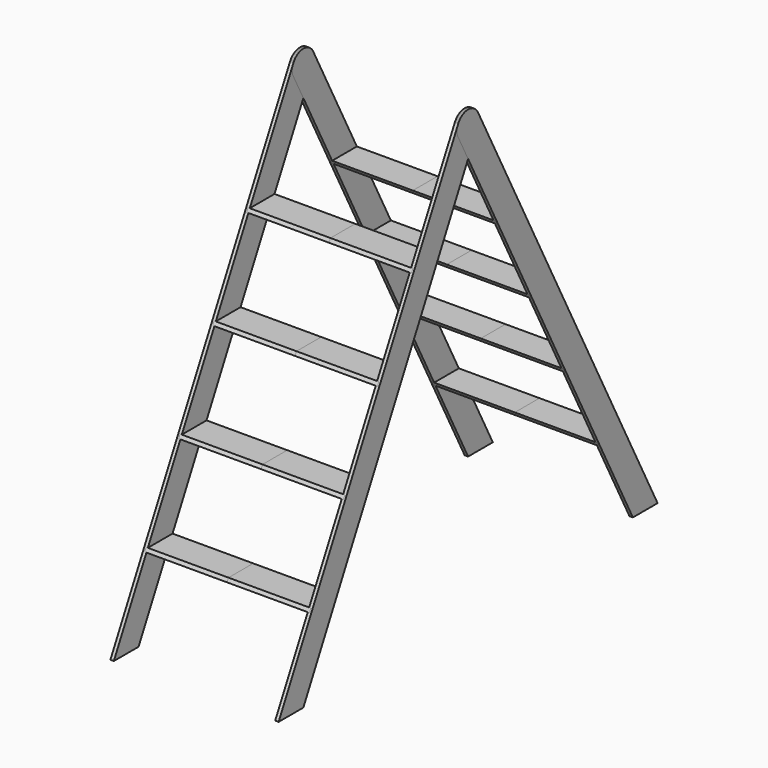
from build123d import *

# Parameters (mm, degrees)
F1_DEPTH = 12.7
F3_DEPTH = 6.35
F5_DEPTH = 304.8


with BuildPart() as f1:
    # F0 (on Right) → F1 (new body)
    with BuildSketch(Plane.YZ):
        with BuildLine():
            Line((-45.6487136165, 1610.6905428261), (-876.3154893977, 0))
            Line((-876.3154893977, 0), (-762, 0))
            Line((-762, 0), (49.5472886649, 1573.6172205508))
            ThreePointArc((49.5472886649, 1573.6172205508), (18.6388714246, 1635.0090014768), (-45.6487136165, 1610.6905428261))
        make_face()
    extrude(amount=F1_DEPTH)

    # F2 (on face) → F3 (cut)
    with BuildSketch(Plane.YZ):
        Polygon((-133.233079164, 1219.2), (-247.5485685617, 1219.2), (-254.098223987, 1206.5), (-139.7827345893, 1206.5), align=None)
        Polygon((-290.424809373, 914.4), (-404.7402987707, 914.4), (-411.289954196, 901.7), (-296.9744647984, 901.7), align=None)
        Polygon((-447.616539582, 609.6), (-561.9320289797, 609.6), (-568.4816844051, 596.9), (-454.1661950074, 596.9), align=None)
        Polygon((-604.808269791, 304.8), (-719.1237591887, 304.8), (-725.6734146141, 292.1), (-611.3579252164, 292.1), align=None)
    extrude(amount=F3_DEPTH, mode=Mode.SUBTRACT)


with BuildPart() as f5:
    # F4 (on face) → F5 (new body)
    with BuildSketch(Plane(origin=(6.35, 0, 0), x_dir=(0, -1, 0), z_dir=(-1, 0, 0))):
        Polygon((254.098223987, 1206.5), (247.5485685617, 1219.2), (133.233079164, 1219.2), (139.7827345893, 1206.5), align=None)
    extrude(amount=F5_DEPTH)


with BuildPart() as f5b:
    # F4 (on face) → F5, piece 2 (new body)
    with BuildSketch(Plane(origin=(6.35, 0, 0), x_dir=(0, -1, 0), z_dir=(-1, 0, 0))):
        Polygon((725.6734146141, 292.1), (719.1237591887, 304.8), (604.808269791, 304.8), (611.3579252164, 292.1), align=None)
    extrude(amount=F5_DEPTH)


with BuildPart() as f5c:
    # F4 (on face) → F5, piece 3 (new body)
    with BuildSketch(Plane(origin=(6.35, 0, 0), x_dir=(0, -1, 0), z_dir=(-1, 0, 0))):
        Polygon((568.4816844051, 596.9), (561.9320289797, 609.6), (447.616539582, 609.6), (454.1661950074, 596.9), align=None)
    extrude(amount=F5_DEPTH)


with BuildPart() as f5d:
    # F4 (on face) → F5, piece 4 (new body)
    with BuildSketch(Plane(origin=(6.35, 0, 0), x_dir=(0, -1, 0), z_dir=(-1, 0, 0))):
        Polygon((411.289954196, 901.7), (404.7402987707, 914.4), (290.424809373, 914.4), (296.9744647984, 901.7), align=None)
    extrude(amount=F5_DEPTH)


with BuildPart() as f6_1:
    # F6: instance of F1
    add(f1.part.mirror(Plane(origin=(-298.45, -193.6656515755, 1212.85), x_dir=(0, -1, 0), z_dir=(-1, 0, 0))))


with BuildPart() as f6_2:
    # F6: instance of F5
    add(f5.part.mirror(Plane(origin=(-298.45, -193.6656515755, 1212.85), x_dir=(0, -1, 0), z_dir=(-1, 0, 0))))


with BuildPart() as f6_3:
    # F6: instance of F5d
    add(f5d.part.mirror(Plane(origin=(-298.45, -193.6656515755, 1212.85), x_dir=(0, -1, 0), z_dir=(-1, 0, 0))))


with BuildPart() as f6_4:
    # F6: instance of F5c
    add(f5c.part.mirror(Plane(origin=(-298.45, -193.6656515755, 1212.85), x_dir=(0, -1, 0), z_dir=(-1, 0, 0))))


with BuildPart() as f6_5:
    # F6: instance of F5b
    add(f5b.part.mirror(Plane(origin=(-298.45, -193.6656515755, 1212.85), x_dir=(0, -1, 0), z_dir=(-1, 0, 0))))


with BuildPart() as f7_1:
    # F7: instance of F1
    add(f1.part.mirror(Plane.XZ))


with BuildPart() as f7_2:
    # F7: instance of F6_1
    add(f6_1.part.mirror(Plane.XZ))


with BuildPart() as f7_3:
    # F7: instance of F6_2
    add(f6_2.part.mirror(Plane.XZ))


with BuildPart() as f7_4:
    # F7: instance of F5
    add(f5.part.mirror(Plane.XZ))


with BuildPart() as f7_5:
    # F7: instance of F5d
    add(f5d.part.mirror(Plane.XZ))


with BuildPart() as f7_6:
    # F7: instance of F5c
    add(f5c.part.mirror(Plane.XZ))


with BuildPart() as f7_7:
    # F7: instance of F5b
    add(f5b.part.mirror(Plane.XZ))


with BuildPart() as f7_8:
    # F7: instance of F6_3
    add(f6_3.part.mirror(Plane.XZ))


with BuildPart() as f7_9:
    # F7: instance of F6_4
    add(f6_4.part.mirror(Plane.XZ))


with BuildPart() as f7_10:
    # F7: instance of F6_5
    add(f6_5.part.mirror(Plane.XZ))


solid = Compound([f1.part, f5.part, f5b.part, f5c.part, f5d.part, f6_1.part, f6_2.part, f6_3.part, f6_4.part, f6_5.part, f7_1.part, f7_2.part, f7_3.part, f7_4.part, f7_5.part, f7_6.part, f7_7.part, f7_8.part, f7_9.part, f7_10.part])
